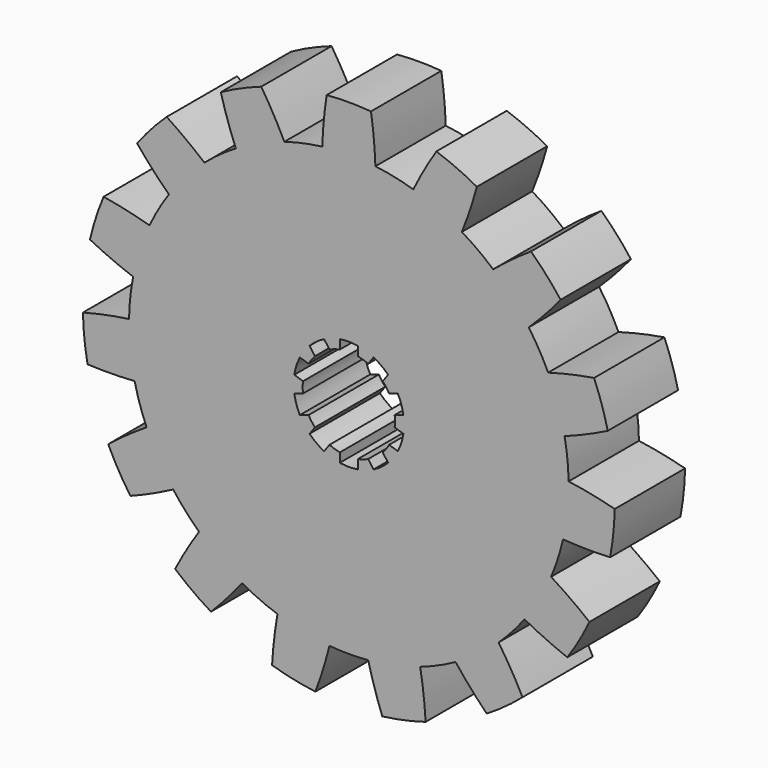
from build123d import *

# Parameters (mm, degrees)
F2_DEPTH = 10
F3_DEPTH = 12.5


with BuildPart() as f2:
    # F1 (on Front) → F2 (new body, symmetric)
    with BuildSketch(Plane.XZ):
        with BuildLine():
            ThreePointArc((-6.0454455831, 49.6331803102), (0, 50), (6.0454455831, 49.6331803102))
            ThreePointArc((6.0454455831, 49.6331803102), (5.6999328162, 54.9765582241), (5.0372687356, 60.2899321917))
            ThreePointArc((5.0372687356, 60.2899321917), (0, 60.5), (-5.0372687356, 60.2899321917))
            ThreePointArc((-5.0372687356, 60.2899321917), (-5.6999328162, 54.9765582241), (-6.0454455831, 49.6331803102))
        make_face()
        with BuildLine():
            ThreePointArc((14.6648437927, 47.8010706631), (20.3368321538, 45.6772728821), (25.7104224964, 42.8832621783))
            ThreePointArc((25.7104224964, 42.8832621783), (27.5681284731, 47.905213503), (29.1238986033, 53.0287519196))
            ThreePointArc((29.1238986033, 53.0287519196), (24.6075669061, 55.2695001874), (19.9203506586, 57.1264354711))
            ThreePointArc((19.9203506586, 57.1264354711), (17.1538330068, 52.5419565819), (14.6648437927, 47.8010706631))
        make_face()
        with BuildLine():
            ThreePointArc((32.8394484508, 37.7037216393), (37.1572412739, 33.4565303179), (40.9298337882, 28.7184384337))
            ThreePointArc((40.9298337882, 28.7184384337), (44.6695442683, 32.5506221621), (48.1747418201, 36.5984186894))
            ThreePointArc((48.1747418201, 36.5984186894), (44.9602619414, 40.4824016847), (41.4335604532, 44.0852590802))
            ThreePointArc((41.4335604532, 44.0852590802), (37.0415452653, 41.022373318), (32.8394484508, 37.7037216393))
        make_face()
        with BuildLine():
            ThreePointArc((45.3358141347, 21.0870566164), (47.5528258148, 15.4508497187), (49.0721049822, 9.587935785))
            ThreePointArc((49.0721049822, 9.587935785), (54.0471900496, 11.5677325362), (58.8957345225, 13.8398863816))
            ThreePointArc((58.8957345225, 13.8398863816), (57.5389192359, 18.6955281597), (55.7825312334, 23.4213408923))
            ThreePointArc((55.7825312334, 23.4213408923), (50.5244378355, 22.4096490308), (45.3358141347, 21.0870566164))
        make_face()
        with BuildLine():
            ThreePointArc((49.9932056918, 0.8242479348), (49.9983013941, 0.4121379686), (50, 0))
            ThreePointArc((50, 0), (49.6813253191, -5.6361258444), (48.7293634187, -11.2004080646))
            ThreePointArc((48.7293634187, -11.2004080646), (54.0795856679, -11.4153231348), (59.433119675, -11.3116880129))
            ThreePointArc((59.433119675, -11.3116880129), (60.1685746698, -6.3239720277), (60.486195595, -1.2923399121))
            ThreePointArc((60.486195595, -1.2923399121), (55.2711961039, -0.077907159), (49.9932056918, 0.8242479348))
        make_face()
        with BuildLine():
            ThreePointArc((54.7312472383, -25.7825634052), (50.4610624428, -22.5519924933), (46.0063178108, -19.5810807029))
            ThreePointArc((46.0063178108, -19.5810807029), (43.3012701892, -25), (39.9608722277, -30.0520996073))
            ThreePointArc((39.9608722277, -30.0520996073), (44.7611296266, -32.4245657308), (49.6939785027, -34.5073687866))
            ThreePointArc((49.6939785027, -34.5073687866), (52.394536929, -30.25), (54.7312472383, -25.7825634052))
        make_face()
        with BuildLine():
            ThreePointArc((39.5127690163, -45.8147474582), (36.9257526611, -41.1266334471), (34.064519626, -36.6006625985))
            ThreePointArc((34.064519626, -36.6006625985), (29.3892626146, -40.4508497187), (24.2827831954, -43.7075101131))
            ThreePointArc((24.2827831954, -43.7075101131), (27.7030676308, -47.827306344), (31.3622969917, -51.7364120075))
            ThreePointArc((31.3622969917, -51.7364120075), (35.5610077637, -48.9455281597), (39.5127690163, -45.8147474582))
        make_face()
        with BuildLine():
            ThreePointArc((17.4621740692, -57.9251454618), (17.0056447843, -52.5901058542), (16.2326565314, -47.2916574242))
            ThreePointArc((16.2326565314, -47.2916574242), (10.3955845409, -48.9073800367), (4.4059803465, -49.8054950501))
            ThreePointArc((4.4059803465, -49.8054950501), (5.8548935672, -54.9602711929), (7.6077894133, -60.0197595817))
            ThreePointArc((7.6077894133, -60.0197595817), (12.5786572945, -59.1779298444), (17.4621740692, -57.9251454618))
        make_face()
        with BuildLine():
            ThreePointArc((-7.6077894133, -60.0197595817), (-5.8548935672, -54.9602711929), (-4.4059803465, -49.8054950501))
            ThreePointArc((-4.4059803465, -49.8054950501), (-10.3955845409, -48.9073800367), (-16.2326565314, -47.2916574242))
            ThreePointArc((-16.2326565314, -47.2916574242), (-17.0056447843, -52.5901058542), (-17.4621740692, -57.9251454618))
            ThreePointArc((-17.4621740692, -57.9251454618), (-12.5786572945, -59.1779298444), (-7.6077894133, -60.0197595817))
        make_face()
        with BuildLine():
            ThreePointArc((-31.3622969917, -51.7364120075), (-27.7030676308, -47.827306344), (-24.2827831954, -43.7075101131))
            ThreePointArc((-24.2827831954, -43.7075101131), (-29.3892626146, -40.4508497187), (-34.064519626, -36.6006625985))
            ThreePointArc((-34.064519626, -36.6006625985), (-36.9257526611, -41.1266334471), (-39.5127690163, -45.8147474582))
            ThreePointArc((-39.5127690164, -45.8147474582), (-35.5610077637, -48.9455281597), (-31.3622969917, -51.7364120075))
        make_face()
        with BuildLine():
            ThreePointArc((-49.6939785027, -34.5073687866), (-44.7611296266, -32.4245657308), (-39.9608722277, -30.0520996073))
            ThreePointArc((-39.9608722277, -30.0520996073), (-43.3012701892, -25), (-46.0063178108, -19.5810807029))
            ThreePointArc((-46.0063178108, -19.5810807029), (-50.4610624428, -22.5519924933), (-54.7312472383, -25.7825634052))
            ThreePointArc((-54.7312472383, -25.7825634052), (-52.394536929, -30.25), (-49.6939785027, -34.5073687866))
        make_face()
        with BuildLine():
            ThreePointArc((-59.433119675, -11.3116880129), (-54.0795856679, -11.4153231348), (-48.7293634187, -11.2004080646))
            ThreePointArc((-48.7293634187, -11.2004080646), (-49.7260947684, -5.2264231634), (-49.9932056918, 0.8242479348))
            ThreePointArc((-49.9932056918, 0.8242479348), (-55.2711961039, -0.077907159), (-60.486195595, -1.2923399121))
            ThreePointArc((-60.486195595, -1.2923399121), (-60.1685746698, -6.3239720277), (-59.433119675, -11.3116880129))
        make_face()
        with BuildLine():
            ThreePointArc((-49.0721049822, 9.587935785), (-47.5528258148, 15.4508497187), (-45.3358141347, 21.0870566164))
            ThreePointArc((-45.3358141347, 21.0870566164), (-50.5244378355, 22.4096490308), (-55.7825312334, 23.4213408923))
            ThreePointArc((-55.7825312334, 23.4213408923), (-57.5389192359, 18.6955281597), (-58.8957345225, 13.8398863816))
            ThreePointArc((-58.8957345225, 13.8398863816), (-54.0471900496, 11.5677325362), (-49.0721049822, 9.587935785))
        make_face()
        with BuildLine():
            ThreePointArc((-25.7104224964, 42.8832621783), (-20.3368321538, 45.6772728821), (-14.6648437927, 47.8010706631))
            ThreePointArc((-14.6648437927, 47.8010706631), (-17.1538330068, 52.5419565819), (-19.9203506586, 57.1264354711))
            ThreePointArc((-19.9203506586, 57.1264354711), (-24.6075669061, 55.2695001874), (-29.1238986033, 53.0287519196))
            ThreePointArc((-29.1238986033, 53.0287519196), (-27.5681284731, 47.905213503), (-25.7104224964, 42.8832621783))
        make_face()
        with BuildLine():
            ThreePointArc((48.7293634187, -11.2004080646), (49.6813253191, -5.6361258444), (50, 0))
            ThreePointArc((50, 0), (49.9983013941, 0.4121379686), (49.9932056918, 0.8242479348))
            ThreePointArc((49.9932056918, 0.8242479348), (49.7260947684, 5.2264231634), (49.0721049822, 9.587935785))
            ThreePointArc((49.0721049822, 9.587935785), (47.5528258148, 15.4508497187), (45.3358141347, 21.0870566164))
            ThreePointArc((45.3358141347, 21.0870566164), (43.3012701892, 25), (40.9298337882, 28.7184384337))
            ThreePointArc((40.9298337882, 28.7184384337), (37.1572412739, 33.4565303179), (32.8394484508, 37.7037216393))
            ThreePointArc((32.8394484508, 37.7037216393), (29.3892626146, 40.4508497187), (25.7104224964, 42.8832621783))
            ThreePointArc((25.7104224964, 42.8832621783), (20.3368321538, 45.6772728821), (14.6648437927, 47.8010706631))
            ThreePointArc((14.6648437927, 47.8010706631), (10.3955845409, 48.9073800367), (6.0454455831, 49.6331803102))
            ThreePointArc((6.0454455831, 49.6331803102), (0, 50), (-6.0454455831, 49.6331803102))
            ThreePointArc((-6.0454455831, 49.6331803102), (-10.3955845409, 48.9073800367), (-14.6648437927, 47.8010706631))
            ThreePointArc((-14.6648437927, 47.8010706631), (-20.3368321538, 45.6772728821), (-25.7104224964, 42.8832621783))
            ThreePointArc((-25.7104224964, 42.8832621783), (-29.3892626146, 40.4508497187), (-32.8394484508, 37.7037216393))
            ThreePointArc((-32.8394484508, 37.7037216393), (-37.1572412739, 33.4565303179), (-40.9298337882, 28.7184384337))
            ThreePointArc((-40.9298337882, 28.7184384337), (-43.3012701892, 25), (-45.3358141347, 21.0870566164))
            ThreePointArc((-45.3358141347, 21.0870566164), (-47.5528258148, 15.4508497187), (-49.0721049822, 9.587935785))
            ThreePointArc((-49.0721049822, 9.587935785), (-49.7260947684, 5.2264231634), (-49.9932056918, 0.8242479348))
            ThreePointArc((-49.9932056918, 0.8242479348), (-49.7260947684, -5.2264231634), (-48.7293634187, -11.2004080646))
            ThreePointArc((-48.7293634187, -11.2004080646), (-47.5528258148, -15.4508497187), (-46.0063178108, -19.5810807029))
            ThreePointArc((-46.0063178108, -19.5810807029), (-43.3012701892, -25), (-39.9608722277, -30.0520996073))
            ThreePointArc((-39.9608722277, -30.0520996073), (-37.1572412739, -33.4565303179), (-34.064519626, -36.6006625985))
            ThreePointArc((-34.064519626, -36.6006625985), (-29.3892626146, -40.4508497187), (-24.2827831954, -43.7075101131))
            ThreePointArc((-24.2827831954, -43.7075101131), (-20.3368321538, -45.6772728821), (-16.2326565314, -47.2916574242))
            ThreePointArc((-16.2326565314, -47.2916574242), (-10.3955845409, -48.9073800367), (-4.4059803465, -49.8054950501))
            ThreePointArc((-4.4059803465, -49.8054950501), (0, -50), (4.4059803465, -49.8054950501))
            ThreePointArc((4.4059803465, -49.8054950501), (10.3955845409, -48.9073800367), (16.2326565314, -47.2916574242))
            ThreePointArc((16.2326565314, -47.2916574242), (20.3368321538, -45.6772728821), (24.2827831954, -43.7075101131))
            ThreePointArc((24.2827831954, -43.7075101131), (29.3892626146, -40.4508497187), (34.064519626, -36.6006625985))
            ThreePointArc((34.064519626, -36.6006625985), (37.1572412739, -33.4565303179), (39.9608722277, -30.0520996073))
            ThreePointArc((39.9608722277, -30.0520996073), (43.3012701892, -25), (46.0063178108, -19.5810807029))
            ThreePointArc((46.0063178108, -19.5810807029), (47.5528258148, -15.4508497187), (48.7293634187, -11.2004080646))
        make_face()
        with BuildLine():
            ThreePointArc((-40.9298337882, 28.7184384337), (-37.1572412739, 33.4565303179), (-32.8394484508, 37.7037216393))
            ThreePointArc((-32.8394484508, 37.7037216393), (-37.0415452653, 41.022373318), (-41.4335604532, 44.0852590802))
            ThreePointArc((-41.4335604532, 44.0852590802), (-44.9602619414, 40.4824016847), (-48.1747418201, 36.5984186894))
            ThreePointArc((-48.1747418201, 36.5984186894), (-44.6695442683, 32.5506221621), (-40.9298337882, 28.7184384337))
        make_face()
    extrude(amount=F2_DEPTH, both=True)

    # F0 (on Front) → F3 (cut, symmetric)
    with BuildSketch(Plane.XZ):
        with BuildLine():
            ThreePointArc((10.4274046286, -1.2325715847), (10.4818354452, -0.6173537882), (10.5, 0))
            ThreePointArc((10.5, 0), (10.4818354452, 0.6173537882), (10.4274046286, 1.2325715847))
            ThreePointArc((10.4274046286, 1.2325715847), (9.9860934211, 3.2446784409), (9.1604349517, 5.1319033015))
            ThreePointArc((9.1604349517, 5.1319033015), (8.4946784409, 6.1717451491), (7.7114601519, 7.1262460192))
            ThreePointArc((7.7114601519, 7.1262460192), (6.1717451491, 8.4946784409), (4.3944904749, 9.5361655536))
            ThreePointArc((4.3944904749, 9.5361655536), (3.2446784409, 9.9860934211), (2.05, 10.2979366865))
            ThreePointArc((2.05, 10.2979366865), (0, 10.5), (-2.05, 10.2979366865))
            ThreePointArc((-2.05, 10.2979366865), (-3.2446784409, 9.9860934211), (-4.3944904749, 9.5361655536))
            ThreePointArc((-4.3944904749, 9.5361655536), (-6.1717451491, 8.4946784409), (-7.7114601519, 7.1262460192))
            ThreePointArc((-7.7114601519, 7.1262460192), (-8.4946784409, 6.1717451491), (-9.1604349517, 5.1319033015))
            ThreePointArc((-9.1604349517, 5.1319033015), (-9.9860934211, 3.2446784409), (-10.4274046286, 1.2325715847))
            ThreePointArc((-10.4274046286, 1.2325715847), (-10.5, 0), (-10.4274046286, -1.2325715847))
            ThreePointArc((-10.4274046286, -1.2325715847), (-9.9860934211, -3.2446784409), (-9.1604349517, -5.1319033015))
            ThreePointArc((-9.1604349517, -5.1319033015), (-8.4946784409, -6.1717451491), (-7.7114601519, -7.1262460192))
            ThreePointArc((-7.7114601519, -7.1262460192), (-6.1717451491, -8.4946784409), (-4.3944904749, -9.5361655536))
            ThreePointArc((-4.3944904749, -9.5361655536), (-3.2446784409, -9.9860934211), (-2.05, -10.2979366865))
            ThreePointArc((-2.05, -10.2979366865), (0, -10.5), (2.05, -10.2979366865))
            ThreePointArc((2.05, -10.2979366865), (3.2446784409, -9.9860934211), (4.3944904749, -9.5361655536))
            ThreePointArc((4.3944904749, -9.5361655536), (6.1717451491, -8.4946784409), (7.7114601519, -7.1262460192))
            ThreePointArc((7.7114601519, -7.1262460192), (8.4946784409, -6.1717451491), (9.1604349517, -5.1319033015))
            ThreePointArc((9.1604349517, -5.1319033015), (9.9860934211, -3.2446784409), (10.4274046286, -1.2325715847))
        make_face()
        with BuildLine():
            ThreePointArc((9.1604349517, 5.1319033015), (9.9860934211, 3.2446784409), (10.4274046286, 1.2325715847))
            Line((10.4274046286, 1.2325715847), (12.4089318626, 1.8764088117))
            ThreePointArc((12.4089318626, 1.8764088117), (11.9357592795, 3.8781632794), (11.1419621857, 5.7757405285))
            Line((11.1419621857, 5.7757405285), (9.1604349517, 5.1319033015))
        make_face()
        with BuildLine():
            Line((12.4089318626, -1.8764088117), (10.4274046286, -1.2325715847))
            ThreePointArc((10.4274046286, -1.2325715847), (9.9860934211, -3.2446784409), (9.1604349517, -5.1319033015))
            Line((9.1604349517, -5.1319033015), (11.1419621857, -5.7757405285))
            ThreePointArc((11.1419621857, -5.7757405285), (11.9357592795, -3.8781632794), (12.4089318626, -1.8764088117))
        make_face()
        with BuildLine():
            ThreePointArc((4.3944904749, 9.5361655536), (6.1717451491, 8.4946784409), (7.7114601519, 7.1262460192))
            Line((7.7114601519, 7.1262460192), (8.9361113321, 8.8118337626))
            ThreePointArc((8.9361113321, 8.8118337626), (7.3767049163, 10.1531632794), (5.6191416552, 11.221753297))
            Line((5.6191416552, 11.221753297), (4.3944904749, 9.5361655536))
        make_face()
        with BuildLine():
            Line((8.9361113321, -8.8118337626), (7.7114601519, -7.1262460192))
            ThreePointArc((7.7114601519, -7.1262460192), (6.1717451491, -8.4946784409), (4.3944904749, -9.5361655536))
            Line((4.3944904749, -9.5361655536), (5.6191416552, -11.221753297))
            ThreePointArc((5.6191416552, -11.221753297), (7.3767049163, -10.1531632794), (8.9361113321, -8.8118337626))
        make_face()
        with BuildLine():
            ThreePointArc((-2.05, 10.2979366865), (0, 10.5), (2.05, 10.2979366865))
            Line((2.05, 10.2979366865), (2.05, 12.3814377194))
            ThreePointArc((2.05, 12.3814377194), (0, 12.55), (-2.05, 12.3814377194))
            Line((-2.05, 12.3814377194), (-2.05, 10.2979366865))
        make_face()
        with BuildLine():
            Line((2.05, -12.3814377194), (2.05, -10.2979366865))
            ThreePointArc((2.05, -10.2979366865), (0, -10.5), (-2.05, -10.2979366865))
            Line((-2.05, -10.2979366865), (-2.05, -12.3814377194))
            ThreePointArc((-2.05, -12.3814377194), (0, -12.55), (2.05, -12.3814377194))
        make_face()
        with BuildLine():
            ThreePointArc((-7.7114601519, 7.1262460192), (-6.1717451491, 8.4946784409), (-4.3944904749, 9.5361655536))
            Line((-4.3944904749, 9.5361655536), (-5.6191416552, 11.221753297))
            ThreePointArc((-5.6191416552, 11.221753297), (-7.3767049163, 10.1531632794), (-8.9361113321, 8.8118337626))
            Line((-8.9361113321, 8.8118337626), (-7.7114601519, 7.1262460192))
        make_face()
        with BuildLine():
            Line((-5.6191416552, -11.221753297), (-4.3944904749, -9.5361655536))
            ThreePointArc((-4.3944904749, -9.5361655536), (-6.1717451491, -8.4946784409), (-7.7114601519, -7.1262460192))
            Line((-7.7114601519, -7.1262460192), (-8.9361113321, -8.8118337626))
            ThreePointArc((-8.9361113321, -8.8118337626), (-7.3767049163, -10.1531632794), (-5.6191416552, -11.221753297))
        make_face()
        with BuildLine():
            ThreePointArc((-10.4274046286, 1.2325715847), (-9.9860934211, 3.2446784409), (-9.1604349517, 5.1319033015))
            Line((-9.1604349517, 5.1319033015), (-11.1419621857, 5.7757405285))
            ThreePointArc((-11.1419621857, 5.7757405285), (-11.9357592795, 3.8781632794), (-12.4089318626, 1.8764088117))
            Line((-12.4089318626, 1.8764088117), (-10.4274046286, 1.2325715847))
        make_face()
        with BuildLine():
            Line((-11.1419621857, -5.7757405285), (-9.1604349517, -5.1319033015))
            ThreePointArc((-9.1604349517, -5.1319033015), (-9.9860934211, -3.2446784409), (-10.4274046286, -1.2325715847))
            Line((-10.4274046286, -1.2325715847), (-12.4089318626, -1.8764088117))
            ThreePointArc((-12.4089318626, -1.8764088117), (-11.9357592795, -3.8781632794), (-11.1419621857, -5.7757405285))
        make_face()
    extrude(amount=F3_DEPTH, both=True, mode=Mode.SUBTRACT)


solid = f2.part
